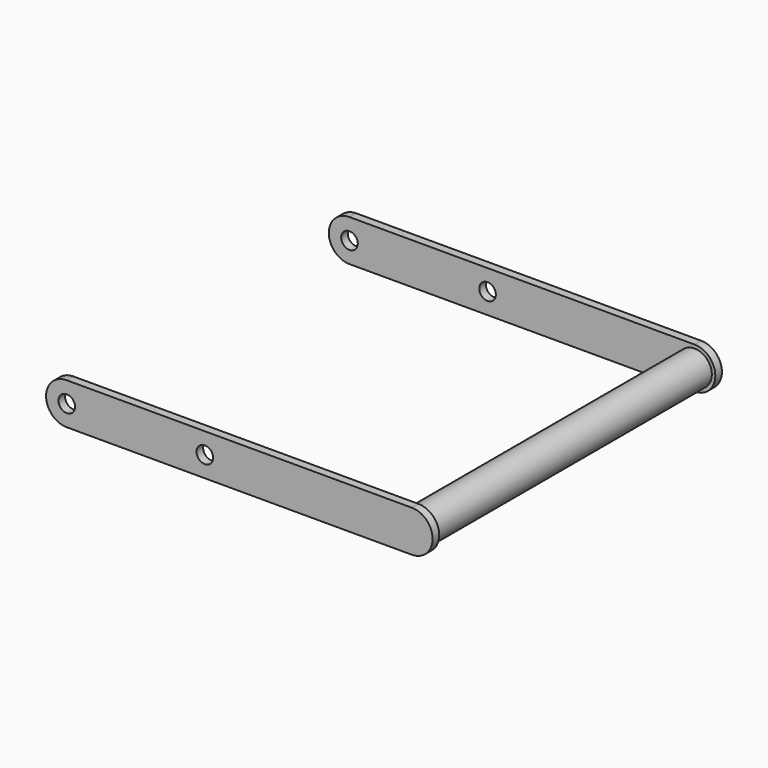
from build123d import *

# Parameters (mm, degrees)
F1_R     = 6
F1_R_2   = 12.5
F2_DEPTH = 6
F3_DEPTH = 125


with BuildPart() as f2:
    # F1 (on offset) → F2 (new body)
    with BuildSketch(Plane.XZ.offset(125)):
        with BuildLine():
            Line((250, 15), (0, 15))
            ThreePointArc((0, 15), (-15, 0), (0, -15))
            Line((0, -15), (250, -15))
            ThreePointArc((250, -15), (265, 0), (250, 15))
        make_face()
        Circle(F1_R, mode=Mode.SUBTRACT)
        with Locations((100, 0)):
            Circle(F1_R, mode=Mode.SUBTRACT)
        with Locations((250, 0)):
            Circle(F1_R_2, mode=Mode.SUBTRACT)
        with Locations((250, 0)):
            Circle(F1_R_2)
    extrude(amount=F2_DEPTH)

    # F1 (on offset) → F3 (join, through all)
    with BuildSketch(Plane.XZ.offset(125)):
        with Locations((250, 0)):
            Circle(F1_R_2)
    extrude(amount=-F3_DEPTH)

    # F4: F2 across plane


with BuildPart() as f2_1:
    add(f2.part)
    add(f2.part.mirror(Plane.XZ))


solid = f2_1.part
